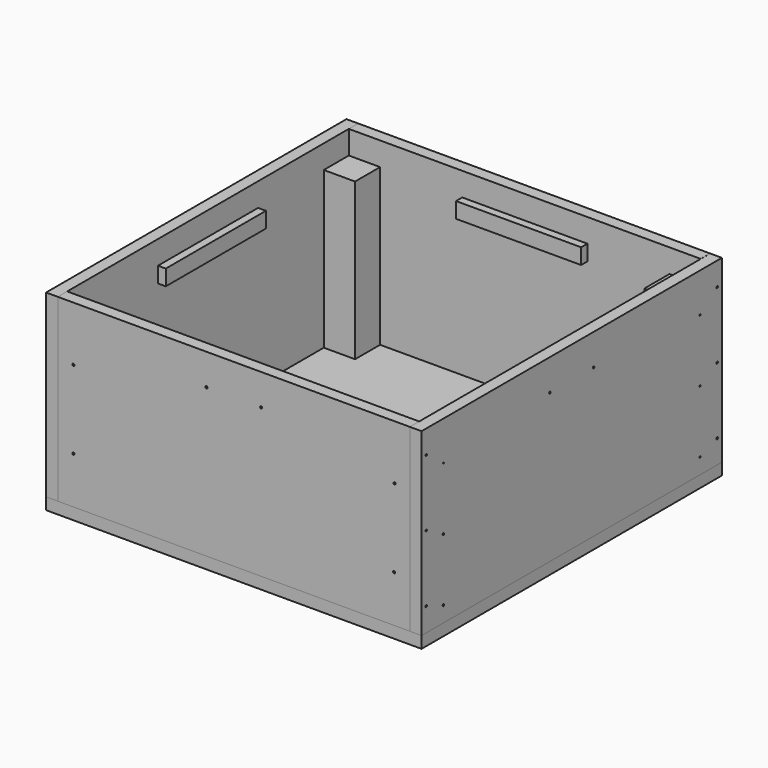
from build123d import *

# Parameters (mm, degrees)
F0_W      = 609.6
F0_H      = 609.6
F1_DEPTH  = 19.05
F2_W      = 19.05
F2_H      = 609.6
F3_DEPTH  = 292.1
F4_DEPTH  = 292.1
F5_W      = 572.21812
F5_H      = 19.05
F5_W_2    = 574.731528
F6_DEPTH  = 292.1
F7_W      = 50.8
F7_H      = 50.8
F8_DEPTH  = 273.05
F12_W     = 203.2
F12_H     = 25.4
F13_DEPTH = 31.75
F11_W     = 203.2
F11_H     = 25.4
F14_DEPTH = 31.75
F10_W     = 203.2
F10_H     = 25.4
F15_DEPTH = 31.75
F9_W      = 203.2
F9_H      = 25.4
F16_DEPTH = 31.75
F21_R     = 1.5
F22_DEPTH = 38.1
F19_R     = 1.714484
F23_DEPTH = 44.45
F17_R     = 1.5
F17_R_2   = 1.588699
F17_R_3   = 0.982943
F17_R_4   = 1.222947
F17_R_5   = 1.15045
F17_R_6   = 1.244405
F24_DEPTH = 44.45
F20_R     = 1.5
F25_DEPTH = 44.45
F18_R     = 1.222947
F18_R_2   = 1.15045
F18_R_3   = 1.244405
F18_R_4   = 1.588699
F18_R_5   = 1.5
F18_R_6   = 0.982943
F26_DEPTH = 44.45
F27_DEPTH = 25.4
F28_DEPTH = 25.4
F29_DEPTH = 25.4
F30_DEPTH = 25.4


with BuildPart() as f1:
    # F0 (on Top) → F1 (new body)
    with BuildSketch(Plane.XY):
        with Locations((0.523625, 58.133477)):
            Rectangle(F0_W, F0_H)
    extrude(amount=-F1_DEPTH)


with BuildPart() as f3:
    # F2 (on face) → F3 (new body)
    with BuildSketch(Plane.XY):
        with Locations((-294.751375, 58.133477)):
            Rectangle(F2_W, F2_H)
    extrude(amount=F3_DEPTH)


with BuildPart() as f4:
    # F2 (on face) → F4 (new body)
    with BuildSketch(Plane.XY):
        with Locations((-294.751375, 58.133477)):
            Rectangle(F2_W, F2_H)
        with Locations((295.798625, 58.133477)):
            Rectangle(F2_W, F2_H)
    extrude(amount=F4_DEPTH)

    # F9 (on face) → F16 (join)
    with BuildSketch(Plane.YZ.offset(305.323625)):
        with Locations((58.133477, 241.3)):
            Rectangle(F9_W, F9_H)
    extrude(amount=-F16_DEPTH)


with BuildPart() as f6:
    # F5 (on face) → F6 (new body)
    with BuildSketch(Plane.XY):
        with Locations((0.104725, 353.408477)):
            Rectangle(F5_W, F5_H)
        with Locations((-0.314176, -237.141523)):
            Rectangle(F5_W_2, F5_H)
    extrude(amount=F6_DEPTH)

    # F12 (on face) → F13 (join)
    with BuildSketch(Plane.XZ.offset(246.666523)):
        with Locations((0.523625, 241.3)):
            Rectangle(F12_W, F12_H)
    extrude(amount=-F13_DEPTH)

    # F10 (on face) → F15 (join)
    with BuildSketch(Plane(origin=(0, 362.933477, 0), x_dir=(-1, 0, 0), z_dir=(0, 1, 0))):
        with Locations((-0.523625, 241.3)):
            Rectangle(F10_W, F10_H)
    extrude(amount=-F15_DEPTH)


with BuildPart() as f8:
    # F7 (on face) → F8 (new body)
    with BuildSketch(Plane(origin=(0, 0, -19.05), x_dir=(1, 0, 0), z_dir=(0, 0, -1))):
        with Locations((-259.826375, 202.216523)):
            Rectangle(F7_W, F7_H)
        with Locations((260.873625, 202.216523)):
            Rectangle(F7_W, F7_H)
        with Locations((260.873625, -318.483477)):
            Rectangle(F7_W, F7_H)
        with Locations((-259.826375, -318.483477)):
            Rectangle(F7_W, F7_H)
    extrude(amount=-F8_DEPTH)


with BuildPart() as f14:
    # F11 (on face) → F14 (new body)
    with BuildSketch(Plane(origin=(-304.276375, 0, 0), x_dir=(0, -1, 0), z_dir=(-1, 0, 0))):
        with Locations((-58.133477, 241.3)):
            Rectangle(F11_W, F11_H)
    extrude(amount=-F14_DEPTH)


with BuildPart() as f22_tool:
    # F21 (on face) → F22 (new body)
    with BuildSketch(Plane(origin=(0, 0, -19.05), x_dir=(1, 0, 0), z_dir=(0, 0, -1))):
        with Locations((-272.526375, 214.916523)):
            Circle(F21_R)
        with Locations((-247.126375, 189.516523)):
            Circle(F21_R)
        with Locations((-294.751375, 176.816523)):
            Circle(F21_R)
        with Locations((-294.751375, 87.916523)):
            Circle(F21_R)
        with Locations((-294.751375, -0.983477)):
            Circle(F21_R)
        with Locations((-294.751375, -115.283477)):
            Circle(F21_R)
        with Locations((-294.751375, -204.183477)):
            Circle(F21_R)
        with Locations((-294.751375, -293.083477)):
            Circle(F21_R)
        with Locations((-272.526375, -331.183477)):
            Circle(F21_R)
        with Locations((-247.126375, -305.783477)):
            Circle(F21_R)
        with Locations((-234.426375, -353.408477)):
            Circle(F21_R)
        with Locations((-145.526375, -353.408477)):
            Circle(F21_R)
        with Locations((-56.626375, -353.408477)):
            Circle(F21_R)
        with Locations((57.673625, -353.408477)):
            Circle(F21_R)
        with Locations((146.573625, -353.408477)):
            Circle(F21_R)
        with Locations((235.473625, -353.408477)):
            Circle(F21_R)
        with Locations((273.573625, -331.183477)):
            Circle(F21_R)
        with Locations((248.173625, -305.783477)):
            Circle(F21_R)
        with Locations((295.798625, -293.083477)):
            Circle(F21_R)
        with Locations((295.798625, -204.183477)):
            Circle(F21_R)
        with Locations((295.798625, -115.283477)):
            Circle(F21_R)
        with Locations((295.798625, -0.983477)):
            Circle(F21_R)
        with Locations((295.798625, 87.916523)):
            Circle(F21_R)
        with Locations((295.798625, 176.816523)):
            Circle(F21_R)
        with Locations((248.173625, 189.516523)):
            Circle(F21_R)
        with Locations((273.573625, 214.916523)):
            Circle(F21_R)
        with Locations((235.473625, 237.141523)):
            Circle(F21_R)
        with Locations((146.573625, 237.141523)):
            Circle(F21_R)
        with Locations((57.673625, 237.141523)):
            Circle(F21_R)
        with Locations((-56.626375, 237.141523)):
            Circle(F21_R)
        with Locations((-145.526375, 237.141523)):
            Circle(F21_R)
        with Locations((-234.426375, 237.141523)):
            Circle(F21_R)
    extrude(amount=-F22_DEPTH)


with BuildPart() as f1_1:
    add(f1.part)

    # F22: cut by f22_tool
    add(f22_tool.part, mode=Mode.SUBTRACT)


with BuildPart() as f3_1:
    add(f3.part)

    # F22: cut by f22_tool
    add(f22_tool.part, mode=Mode.SUBTRACT)


with BuildPart() as f4_1:
    add(f4.part)

    # F22: cut by f22_tool
    add(f22_tool.part, mode=Mode.SUBTRACT)


with BuildPart() as f6_1:
    add(f6.part)

    # F22: cut by f22_tool
    add(f22_tool.part, mode=Mode.SUBTRACT)


with BuildPart() as f8_1:
    add(f8.part)

    # F22: cut by f22_tool
    add(f22_tool.part, mode=Mode.SUBTRACT)


with BuildPart() as f23_tool:
    # F19 (on face) → F23 (new body)
    with BuildSketch(Plane.XZ.offset(246.666523)):
        with Locations((-259.826375, 76.2)):
            Circle(F19_R)
        with Locations((-259.826375, 203.2)):
            Circle(F19_R)
        with Locations((260.873625, 76.2)):
            Circle(F19_R)
        with Locations((261.651588, 203.2)):
            Circle(F19_R)
    extrude(amount=-F23_DEPTH)


with BuildPart() as f6_2:
    add(f6_1.part)

    # F23: cut by f23_tool
    add(f23_tool.part, mode=Mode.SUBTRACT)


with BuildPart() as f8_2:
    add(f8_1.part)

    # F23: cut by f23_tool
    add(f23_tool.part, mode=Mode.SUBTRACT)


with BuildPart() as f24_tool:
    # F17 (on face) → F24 (new body)
    with BuildSketch(Plane.YZ.offset(305.323625)):
        with Locations((-237.141523, 38.1)):
            Circle(F17_R)
        with Locations((-202.216523, 25.4)):
            Circle(F17_R_2)
        with Locations((-202.216523, 127)):
            Circle(F17_R)
        with Locations((-237.141523, 146.05)):
            Circle(F17_R)
        with Locations((-237.141523, 254)):
            Circle(F17_R)
        with Locations((-202.216523, 228.6)):
            Circle(F17_R_3)
        with Locations((318.483477, 25.4)):
            Circle(F17_R_4)
        with Locations((353.408477, 38.1)):
            Circle(F17_R)
        with Locations((318.483477, 127)):
            Circle(F17_R_5)
        with Locations((353.408477, 146.05)):
            Circle(F17_R)
        with Locations((318.483477, 228.6)):
            Circle(F17_R_6)
        with Locations((353.408477, 254)):
            Circle(F17_R)
    extrude(amount=-F24_DEPTH)


with BuildPart() as f4_2:
    add(f4_1.part)

    # F24: cut by f24_tool
    add(f24_tool.part, mode=Mode.SUBTRACT)


with BuildPart() as f6_3:
    add(f6_2.part)

    # F24: cut by f24_tool
    add(f24_tool.part, mode=Mode.SUBTRACT)


with BuildPart() as f8_3:
    add(f8_2.part)

    # F24: cut by f24_tool
    add(f24_tool.part, mode=Mode.SUBTRACT)


with BuildPart() as f25_tool:
    # F20 (on face) → F25 (new body)
    with BuildSketch(Plane(origin=(0, 362.933477, 0), x_dir=(-1, 0, 0), z_dir=(0, 1, 0))):
        with Locations((-260.855407, 76.128751)):
            Circle(F20_R)
        with Locations((-261.63274, 203.174219)):
            Circle(F20_R)
        with Locations((259.834588, 76.184846)):
            Circle(F20_R)
        with Locations((259.826511, 203.177482)):
            Circle(F20_R)
    extrude(amount=-F25_DEPTH)


with BuildPart() as f6_4:
    add(f6_3.part)

    # F25: cut by f25_tool
    add(f25_tool.part, mode=Mode.SUBTRACT)


with BuildPart() as f8_4:
    add(f8_3.part)

    # F25: cut by f25_tool
    add(f25_tool.part, mode=Mode.SUBTRACT)


with BuildPart() as f26_tool:
    # F18 (on face) → F26 (new body)
    with BuildSketch(Plane(origin=(-304.276375, 0, 0), x_dir=(0, -1, 0), z_dir=(-1, 0, 0))):
        with Locations((-318.483477, 25.4)):
            Circle(F18_R)
        with Locations((-353.408477, 38.1)):
            Circle(F18_R_2)
        with Locations((-318.483477, 127)):
            Circle(F18_R_2)
        with Locations((-353.408477, 146.05)):
            Circle(F18_R_2)
        with Locations((-318.483477, 228.6)):
            Circle(F18_R_3)
        with Locations((-353.408477, 254)):
            Circle(F18_R_2)
        with Locations((202.216523, 25.4)):
            Circle(F18_R_4)
        with Locations((237.141523, 38.1)):
            Circle(F18_R_2)
        with Locations((202.216523, 127)):
            Circle(F18_R_5)
        with Locations((237.141523, 146.05)):
            Circle(F18_R_2)
        with Locations((202.216523, 228.6)):
            Circle(F18_R_6)
        with Locations((237.141523, 254)):
            Circle(F18_R_2)
    extrude(amount=-F26_DEPTH)


with BuildPart() as f3_2:
    add(f3_1.part)

    # F26: cut by f26_tool
    add(f26_tool.part, mode=Mode.SUBTRACT)


with BuildPart() as f4_3:
    add(f4_2.part)

    # F26: cut by f26_tool
    add(f26_tool.part, mode=Mode.SUBTRACT)


with BuildPart() as f6_5:
    add(f6_4.part)

    # F26: cut by f26_tool
    add(f26_tool.part, mode=Mode.SUBTRACT)

    # F20 (on face) → F27 (cut)
    with BuildSketch(Plane(origin=(0, 362.933477, 0), x_dir=(-1, 0, 0), z_dir=(0, 1, 0))):
        with Locations((-44.969935, 241.290823)):
            Circle(F20_R)
        with Locations((43.935824, 241.269797)):
            Circle(F20_R)
    extrude(amount=-F27_DEPTH, mode=Mode.SUBTRACT)

    # F19 (on face) → F29 (cut)
    with BuildSketch(Plane.XZ.offset(246.666523)):
        with Locations((-43.926375, 241.3)):
            Circle(F19_R)
        with Locations((44.973625, 241.3)):
            Circle(F19_R)
    extrude(amount=-F29_DEPTH, mode=Mode.SUBTRACT)


with BuildPart() as f8_5:
    add(f8_4.part)

    # F26: cut by f26_tool
    add(f26_tool.part, mode=Mode.SUBTRACT)


with BuildPart() as f28_tool:
    # F18 (on face) → F28 (new body)
    with BuildSketch(Plane(origin=(-304.276375, 0, 0), x_dir=(0, -1, 0), z_dir=(-1, 0, 0))):
        with Locations((-102.583477, 241.3)):
            Circle(F18_R_2)
        with Locations((-13.683477, 241.3)):
            Circle(F18_R_2)
    extrude(amount=-F28_DEPTH)


with BuildPart() as f3_3:
    add(f3_2.part)

    # F28: cut by f28_tool
    add(f28_tool.part, mode=Mode.SUBTRACT)


with BuildPart() as f4_4:
    add(f4_3.part)

    # F28: cut by f28_tool
    add(f28_tool.part, mode=Mode.SUBTRACT)

    # F17 (on face) → F30 (cut)
    with BuildSketch(Plane.YZ.offset(305.323625)):
        with Locations((13.683477, 241.3)):
            Circle(F17_R)
        with Locations((102.583477, 241.3)):
            Circle(F17_R)
    extrude(amount=-F30_DEPTH, mode=Mode.SUBTRACT)


with BuildPart() as f14_1:
    add(f14.part)

    # F28: cut by f28_tool
    add(f28_tool.part, mode=Mode.SUBTRACT)


solid = Compound([f1_1.part, f6_5.part, f8_5.part, f3_3.part, f4_4.part, f14_1.part])
